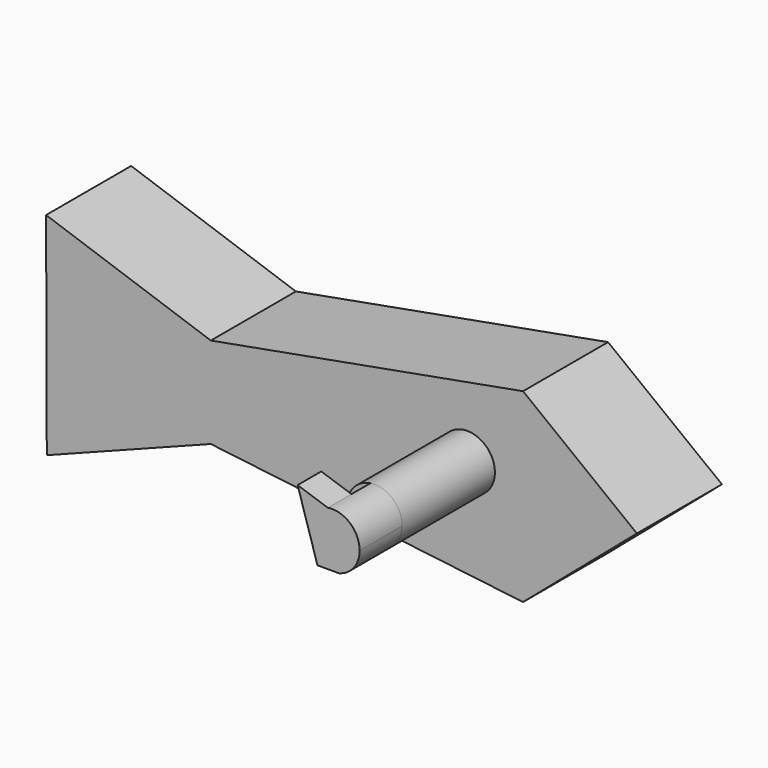
from build123d import *

# Parameters (mm, degrees)
F0_R     = 4.7594660515
F1_DEPTH = 25.4
F2_R     = 6.6022269286
F3_DEPTH = 27.686
F5_DEPTH = 12.7
F7_DEPTH = 7.0358


with BuildPart() as f1:
    # F0 (on Front) → F1 (new body)
    with BuildSketch(Plane.XZ):
        Polygon((-36.6872698069, -24.628309533), (-76.0387508444, -11.0303815454), (-75.8683719788, -61.4831332203), (-36.6872698069, -46.384561923), (37.8912314773, -55.3742349148), (65.0804936886, -32.0959575474), (37.8912314773, -11.0303815454), align=None)
        with Locations((26.4151897281, -32.2757959366)):
            Circle(F0_R, mode=Mode.SUBTRACT)
        with Locations((26.4151897281, -32.2757959366)):
            Circle(F0_R)
    extrude(amount=F1_DEPTH)


with BuildPart() as f3:
    # F2 (on face) → F3 (new body)
    with BuildSketch(Plane.XZ.offset(25.4)):
        with Locations((24.5732702315, -30.2991122007)):
            Circle(F2_R)
    extrude(amount=F3_DEPTH)

    # F4 (on face) → F5 (join)
    with BuildSketch(Plane.XZ.offset(53.086)):
        with BuildLine():
            ThreePointArc((31.1754971601, -30.2991122007), (28.8783233748, -25.2935235391), (23.5853557969, -23.7712162544))
            ThreePointArc((23.5853557969, -23.7712162544), (23.8724175455, -30.4423348627), (26.2256229469, -36.6912269463))
            ThreePointArc((26.2256229469, -36.6912269463), (29.7933568213, -34.3414007124), (31.1754971601, -30.2991122007))
        make_face()
    extrude(amount=F5_DEPTH)

    # F6 (on face) → F7 (join)
    with BuildSketch(Plane.XZ.offset(65.786)):
        with BuildLine():
            ThreePointArc((26.2256229469, -36.6912269463), (23.8724175455, -30.4423348627), (23.5853557969, -23.7712162544))
            Line((23.5853557969, -23.7712162544), (16.3578391075, -21.3506240398))
            Line((16.3578391075, -21.3506240398), (21.0964120924, -36.6912269463))
            Line((21.0964120924, -36.6912269463), (26.2256229469, -36.6912269463))
        make_face()
    extrude(amount=-F7_DEPTH)


solid = Compound([f1.part, f3.part])
